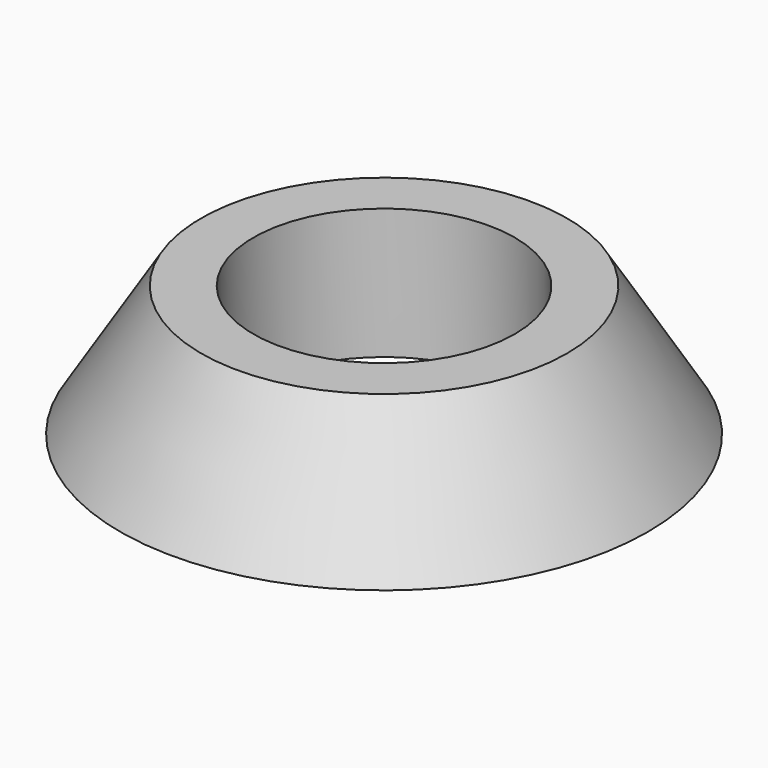
from build123d import *

# Parameters (mm, degrees)
F0_R     = 12.822707
F2_R     = 8.89
F4_R     = 6.35
F5_DEPTH = 25.4


with BuildPart() as f3:
    # F0 (on Top) → F3 section 0
    with BuildSketch(Plane.XY):
        Circle(F0_R)
    # F2 (on offset) → F3 section 1
    with BuildSketch(Plane.XY.offset(6.35)):
        Circle(F2_R)
    loft()

    # F4 (on offset) → F5 (cut)
    with BuildSketch(Plane.XY.offset(6.35)):
        Circle(F4_R)
    extrude(amount=-F5_DEPTH, mode=Mode.SUBTRACT)


solid = f3.part
